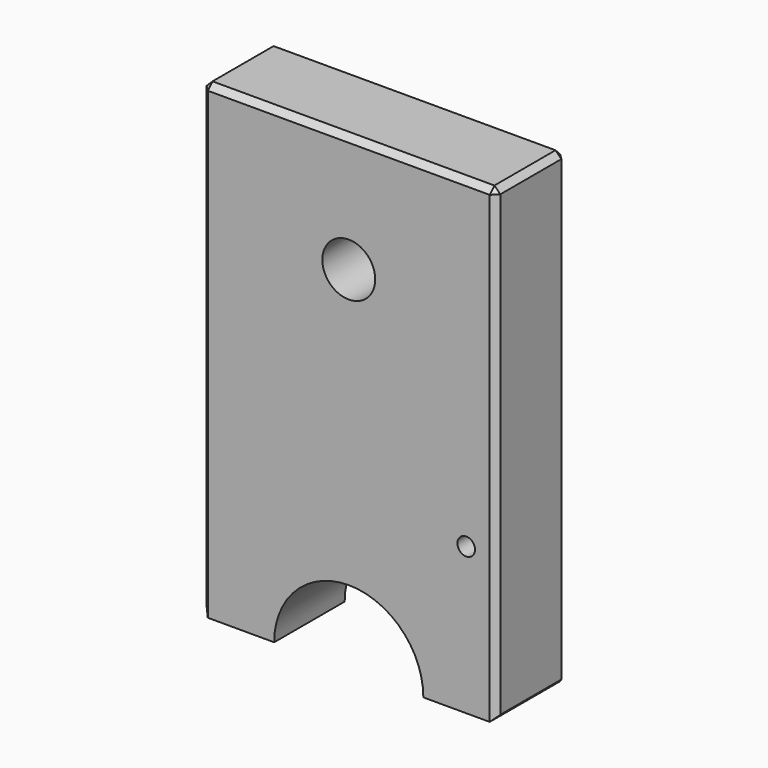
from build123d import *

# Parameters (mm, degrees)
F0_R     = 1.5
F0_R_2   = 4.5
F1_DEPTH = 15
F3_D     = 6.8
F3_DEPTH = 20
F3_TIP   = 2.0429261047
F5_D     = 6.8
F5_DEPTH = 20
F5_TIP   = 2.0429261047
F6_SIZE  = 1


with BuildPart() as f1:
    # F0 (on Front) → F1 (new body)
    with BuildSketch(Plane.XZ):
        with BuildLine():
            Line((25, 40), (-25, 40))
            Line((-25, 40), (-25, -40))
            Line((-25, -40), (-12.7, -40))
            ThreePointArc((-12.7, -40), (0, -27.3), (12.7, -40))
            Line((12.7, -40), (25, -40))
            Line((25, -40), (25, 40))
        make_face()
        with Locations((20, -15)):
            Circle(F0_R, mode=Mode.SUBTRACT)
        with Locations((0, 20)):
            Circle(F0_R_2, mode=Mode.SUBTRACT)
    extrude(amount=F1_DEPTH)

    # F3
    with Locations(Plane(origin=(0, 0, -40), x_dir=(1, 0, 0), z_dir=(0, 0, -1))):
        with Locations((-18.85, 7.5)):
            Hole(F3_D / 2, depth=F3_DEPTH)
            with Locations((0, 0, -(F3_DEPTH + F3_TIP / 2))):  # 118° drill point
                Cone(0, F3_D / 2, F3_TIP, mode=Mode.SUBTRACT)

    # F5
    with Locations(Plane(origin=(0, 0, -40), x_dir=(1, 0, 0), z_dir=(0, 0, -1))):
        with Locations((18.85, 7.5)):
            Hole(F5_D / 2, depth=F5_DEPTH)
            with Locations((0, 0, -(F5_DEPTH + F5_TIP / 2))):  # 118° drill point
                Cone(0, F5_D / 2, F5_TIP, mode=Mode.SUBTRACT)

    # F6
    f6_edges = [f1.edges().sort_by_distance(p)[0] for p in [
        (25, -7.5, -40),
        (25, -7.5, 40),
        (25, 0, 0),
        (25, -15, 0),
        (-25, -7.5, 40),
        (0, 0, 40),
        (0, -15, 40),
        (-25, -7.5, -40),
        (-25, 0, 0),
        (-25, -15, 0),
    ]]
    chamfer(f6_edges, length=F6_SIZE)


solid = f1.part
